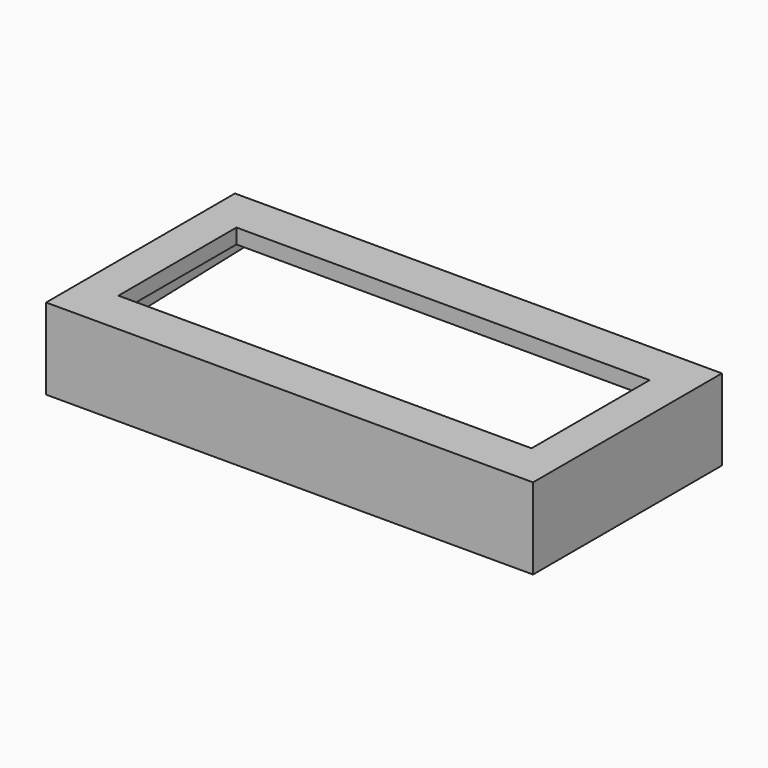
from build123d import *

# Parameters (mm, degrees)
F2_DEPTH  = 25.4
F3_DEPTH  = 25.4
F5_DEPTH  = 20.32
F7_DEPTH  = 22.8346
F8_W      = 44.694509
F8_H      = 15.718196
F9_DEPTH  = 17.6276
F11_DEPTH = 11.43


with BuildPart() as f2:
    # F1 (on Top) → F2 (new body)
    with BuildSketch(Plane.XY):
        Polygon((-41.91, 20.32), (-41.91, 0), (-41.91, -20.32), (41.91, -20.32), (41.91, 20.32), align=None)
    extrude(amount=F2_DEPTH)

    # F0 (on Top) → F3 (cut)
    with BuildSketch(Plane.XY):
        Polygon((-35.56, 12.7), (-35.56, 0), (-35.56, -12.7), (35.56, -12.7), (35.56, 12.7), align=None)
    extrude(amount=F3_DEPTH, mode=Mode.SUBTRACT)

    # F4 (on Top) → F5 (cut)
    with BuildSketch(Plane.XY):
        Polygon((-44.768266, 0), (-40.64, 0), (-40.64, -18.796), (40.64, -18.796), (40.64, 18.796), (40.64, 29.692128), (-40.64, 29.692128), (-44.768266, 29.847285), align=None)
    extrude(amount=F5_DEPTH, mode=Mode.SUBTRACT)

    # F6 (on Top) → F7 (cut)
    with BuildSketch(Plane.XY):
        Polygon((39.612409, -11.161779), (39.612409, 0), (39.612409, 11.161779), (39.612409, 23.861779), (35.112143, 23.861779), (35.112143, 11.161779), (35.112143, 0), (35.112143, -11.161779), align=None)
        Polygon((-36.364518, -11.161779), (35.112143, -11.161779), (35.112143, 0), (35.112143, 11.161779), (35.112143, 23.861779), (-37.475668, 23.861779), align=None)
    extrude(amount=F7_DEPTH, mode=Mode.SUBTRACT)

    # F8 (on Top) → F9 (cut)
    with BuildSketch(Plane.XY):
        with Locations((-22.347254, 7.859098)):
            Rectangle(F8_W, F8_H)
    extrude(amount=F9_DEPTH, mode=Mode.SUBTRACT)

    # F10 (on Top) → F11 (cut)
    with BuildSketch(Plane.XY):
        Polygon((-63.650727, 47.761548), (-64.214841, 0), (-64.214841, -44.940986), (66.283256, -44.940986), (66.283256, 49.265854), align=None)
    extrude(amount=F11_DEPTH, mode=Mode.SUBTRACT)


solid = f2.part
